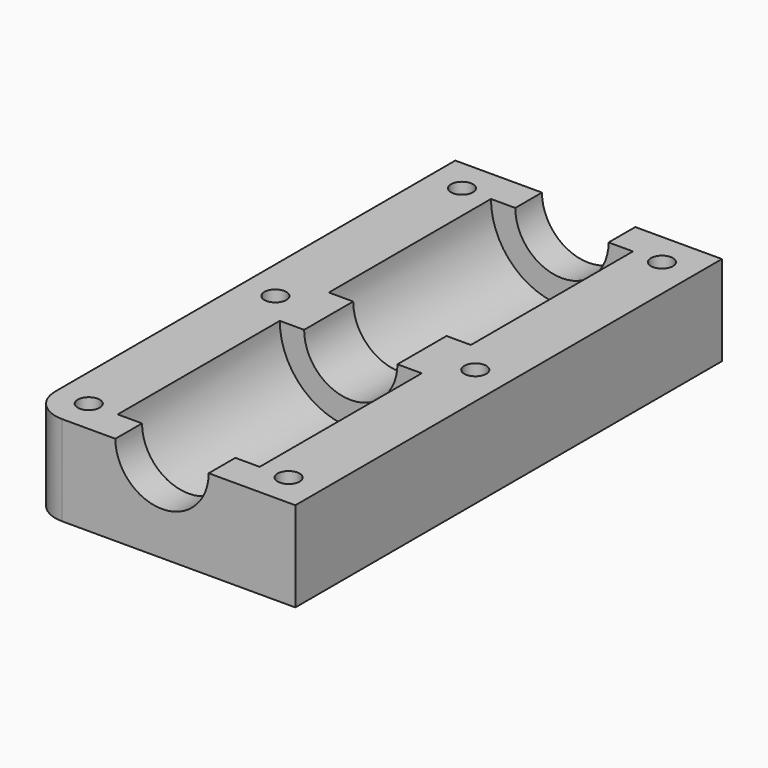
from build123d import *

# Parameters (mm, degrees)
PAD_DEPTH       = 80
SKETCH001_R     = 1.65
POCKET_DEPTH    = 13.501
SKETCH002_R     = 3
POCKET001_DEPTH = 6
SKETCH003_R     = 10.65
POCKET002_DEPTH = 30.4
SKETCH004_R     = 10.65
POCKET003_DEPTH = 30.4
FILLET_R        = 5


with BuildPart() as part:
    # Sketch → Pad (new body)
    with BuildSketch(Plane.XZ):
        with BuildLine():
            Line((20, 0), (20, -13.5))
            Line((20, -13.5), (-20, -13.5))
            Line((-20, -13.5), (-20, 0))
            Line((-20, 0), (-7, 0))
            ThreePointArc((-7, 0), (0, -7), (7, 0))
            Line((7, 0), (20, 0))
        make_face()
    extrude(amount=PAD_DEPTH)

    # Sketch001 → Pocket (cut, through all)
    with BuildSketch(Plane.XY):
        with Locations((-15, -5)):
            Circle(SKETCH001_R)
        with Locations((-15, -40)):
            Circle(SKETCH001_R)
        with Locations((-15, -75)):
            Circle(SKETCH001_R)
        with Locations((15, -5)):
            Circle(SKETCH001_R)
        with Locations((15, -40)):
            Circle(SKETCH001_R)
        with Locations((15, -75)):
            Circle(SKETCH001_R)
    extrude(amount=-POCKET_DEPTH, mode=Mode.SUBTRACT)

    # Sketch002 (on DatumPlane) → Pocket001 (cut)
    with BuildSketch(Plane.XY.offset(-13.5)):
        with Locations((-15, -5)):
            Circle(SKETCH002_R)
        with Locations((-15, -40)):
            Circle(SKETCH002_R)
        with Locations((-15, -75)):
            Circle(SKETCH002_R)
        with Locations((15, -5)):
            Circle(SKETCH002_R)
        with Locations((15, -40)):
            Circle(SKETCH002_R)
        with Locations((15, -75)):
            Circle(SKETCH002_R)
    extrude(amount=POCKET001_DEPTH, mode=Mode.SUBTRACT)

    # Sketch003 (on DatumPlane) → Pocket002 (cut)
    with BuildSketch(Plane.XZ.offset(5)):
        Circle(SKETCH003_R)
    extrude(amount=POCKET002_DEPTH, mode=Mode.SUBTRACT)

    # Sketch004 (on DatumPlane) → Pocket003 (cut)
    with BuildSketch(Plane.XZ.offset(75)):
        Circle(SKETCH004_R)
    extrude(amount=-POCKET003_DEPTH, mode=Mode.SUBTRACT)

    # Fillet
    fillet_edges = [part.edges().sort_by_distance(p)[0] for p in [
        (-20, -80, -6.75),
    ]]
    fillet(fillet_edges, radius=FILLET_R)


solid = part.part
